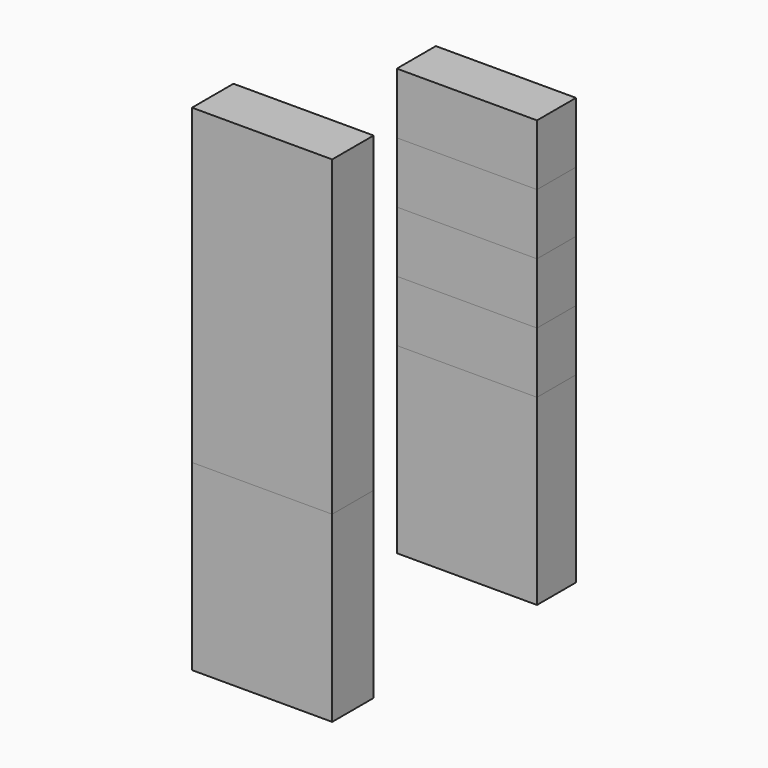
from build123d import *

# Parameters (mm, degrees)
F1_W      = 584.2
F1_H      = 215.9
F2_DEPTH  = 1031.875
F3_W      = 584.2
F3_H      = 215.9
F4_DEPTH  = 762
F5_W      = 584.2
F5_H      = 203.2
F6_DEPTH  = 762
F7_DEPTH  = 254
F8_DEPTH  = 254
F9_DEPTH  = 254
F10_DEPTH = 254


with BuildPart() as f2:
    # F1 (on Top) → F2 (new body, symmetric)
    with BuildSketch(Plane.XY):
        with Locations((910.9823230743, -102.3391206741)):
            Rectangle(F1_W, F1_H)
    extrude(amount=F2_DEPTH, both=True)


with BuildPart() as f4:
    # F3 (on face) → F4 (new body)
    with BuildSketch(Plane(origin=(0, 0, -1031.875), x_dir=(1, 0, 0), z_dir=(0, 0, -1))):
        with Locations((910.9823230743, 102.3391206741)):
            Rectangle(F3_W, F3_H)
    extrude(amount=-F4_DEPTH)


with BuildPart() as f6:
    # F5 (on face) → F6 (new body)
    with BuildSketch(Plane.XY):
        with Locations((2154.8690322876, -596.5868743896)):
            Rectangle(F5_W, F5_H)
    extrude(amount=F6_DEPTH)


with BuildPart() as f7:
    # F7 (new): a face of the model
    f7_faces = [f6.part.faces().sort_by_distance(p)[0] for p in [
        (2154.8690322876, -596.5868743896, 762),
    ]]
    extrude(f7_faces, amount=F7_DEPTH)


with BuildPart() as f8:
    # F8 (new): a face of the model
    f8_faces = [f7.part.faces().sort_by_distance(p)[0] for p in [
        (2154.8690322876, -596.5868743896, 1016),
    ]]
    extrude(f8_faces, amount=F8_DEPTH)


with BuildPart() as f9:
    # F9 (new): a face of the model
    f9_faces = [f8.part.faces().sort_by_distance(p)[0] for p in [
        (2154.8690322876, -596.5868743896, 1270),
    ]]
    extrude(f9_faces, amount=F9_DEPTH)


with BuildPart() as f10:
    # F10 (new): a face of the model
    f10_faces = [f9.part.faces().sort_by_distance(p)[0] for p in [
        (2154.8690322876, -596.5868743896, 1524),
    ]]
    extrude(f10_faces, amount=F10_DEPTH)


solid = Compound([f2.part, f4.part, f6.part, f7.part, f8.part, f9.part, f10.part])
